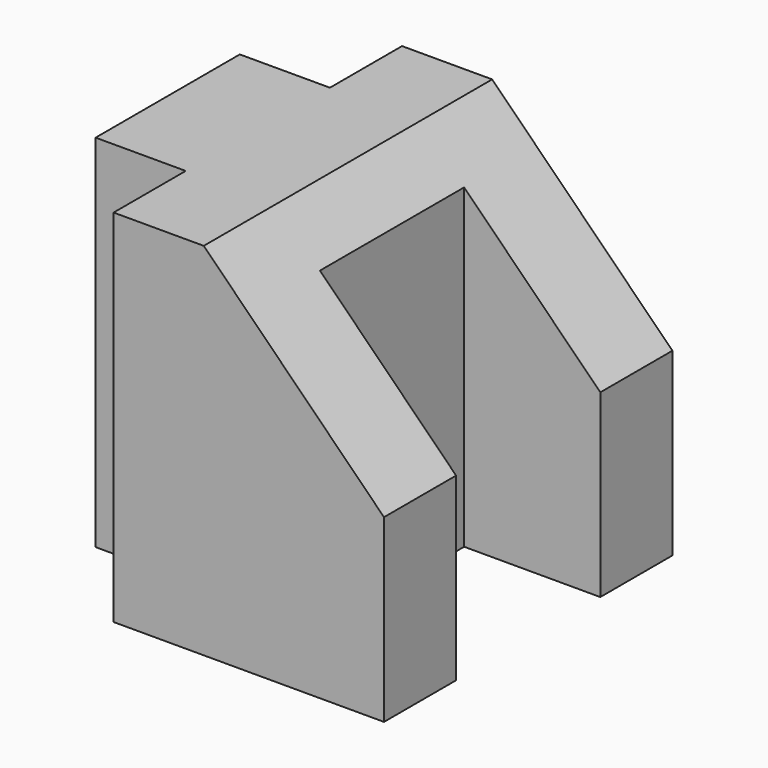
from build123d import *

# Parameters (mm, degrees)
F1_DEPTH = 50.8
F3_DEPTH = 50.801


with BuildPart() as f1:
    # F0 (on Top) → F1 (new body)
    with BuildSketch(Plane.XY):
        Polygon((0, 12.7), (0, 0), (12.7, 0), (12.7, 50.8), (0, 50.8), (0, 38.1), (-12.7, 38.1), (-12.7, 12.7), align=None)
        Polygon((12.7, 50.8), (12.7, 0), (38.1, 0), (38.1, 12.7), (18.91295, 12.7), (18.91295, 38.1), (38.1, 38.1), (38.1, 50.8), align=None)
    extrude(amount=F1_DEPTH)

    # F2 (on face) → F3 (cut, through all)
    with BuildSketch(Plane.XZ):
        Polygon((12.7, 50.8), (38.1, 25.4), (38.1, 50.8), align=None)
    extrude(amount=-F3_DEPTH, mode=Mode.SUBTRACT)


solid = f1.part
